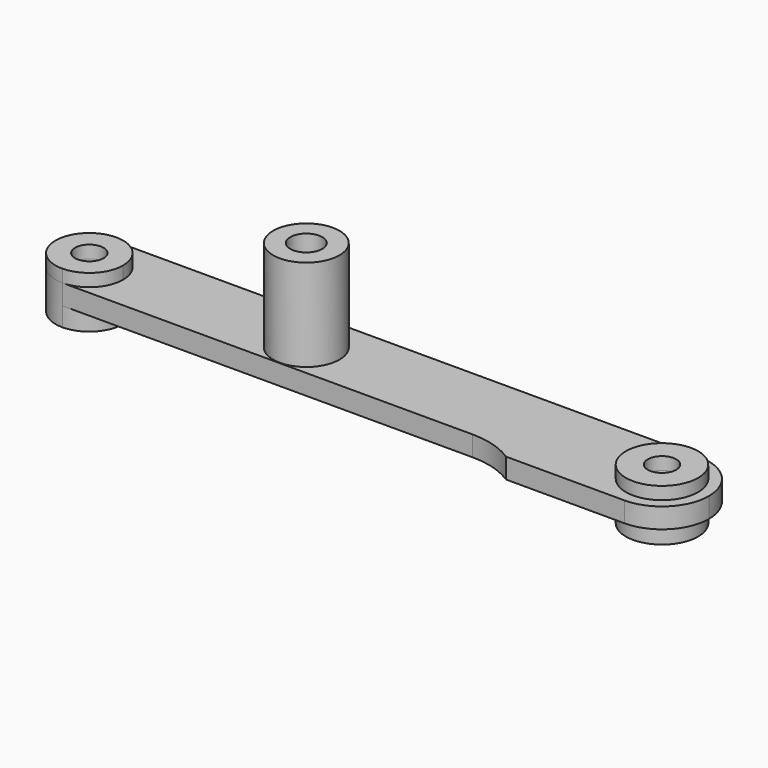
from build123d import *

# Parameters (mm, degrees)
F0_R     = 1.524
F0_R_2   = 3.8735
F1_DEPTH = 1.3462
F0_R_3   = 3.556
F0_R_4   = 1.7145
F2_DEPTH = 9.8425
F3_DEPTH = 4.191
F4_DEPTH = 2.159


with BuildPart() as f1:
    # F0 (on Top) → F1 (new body)
    with BuildSketch(Plane.XY):
        with BuildLine():
            ThreePointArc((-0.047665, -3.524364), (2.511708, -2.464237), (3.571835, 0.095136))
            ThreePointArc((3.571835, 0.095136), (0.457741, 3.679177), (-3.526021, 1.096046))
            ThreePointArc((-3.526021, 1.096046), (-2.93934, -2.081787), (-0.047665, -3.524364))
        make_face()
        with Locations((-0.047665, 0.095136)):
            Circle(F0_R, mode=Mode.SUBTRACT)
        with Locations((61.293335, 0.095136)):
            Circle(F0_R_2)
        with Locations((61.293335, 0.095136)):
            Circle(F0_R, mode=Mode.SUBTRACT)
    extrude(amount=F1_DEPTH)


with BuildPart() as f2:
    # F0 (on Top) → F2 (new body)
    with BuildSketch(Plane.XY):
        with Locations((23.193335, 0.095136)):
            Circle(F0_R_3)
        with Locations((23.193335, 0.095136)):
            Circle(F0_R_4, mode=Mode.SUBTRACT)
    extrude(amount=F2_DEPTH)


with BuildPart() as f3:
    # F0 (on Top) → F3 (new body)
    with BuildSketch(Plane.XY):
        with BuildLine():
            ThreePointArc((-0.047665, -3.524364), (2.511708, -2.464237), (3.571835, 0.095136))
            ThreePointArc((3.571835, 0.095136), (0.457741, 3.679177), (-3.526021, 1.096046))
            ThreePointArc((-3.526021, 1.096046), (-2.93934, -2.081787), (-0.047665, -3.524364))
        make_face()
        with Locations((-0.047665, 0.095136)):
            Circle(F0_R, mode=Mode.SUBTRACT)
        with Locations((61.293335, 0.095136)):
            Circle(F0_R_2)
        with Locations((61.293335, 0.095136)):
            Circle(F0_R, mode=Mode.SUBTRACT)
    extrude(amount=-F3_DEPTH)


with BuildPart() as f4:
    # F0 (on Top) → F4 (new body)
    with BuildSketch(Plane.XY):
        with BuildLine():
            ThreePointArc((-3.526021, 1.096046), (0.457741, 3.679177), (3.571835, 0.095136))
            ThreePointArc((3.571835, 0.095136), (2.511708, -2.464237), (-0.047665, -3.524364))
            Line((-0.047665, -3.524364), (43.902924, -3.524364))
            ThreePointArc((43.902924, -3.524364), (46.349941, -3.881033), (48.593335, -4.921364))
            Line((48.593335, -4.921364), (61.293335, -4.921364))
            ThreePointArc((61.293335, -4.921364), (56.276835, 0.095136), (61.293335, 5.111636))
            Line((61.293335, 5.111636), (-0.047457, 5.111636))
            ThreePointArc((-0.047457, 5.111636), (-2.703835, 3.898289), (-3.526021, 1.096046))
        make_face()
        with Locations((23.193335, 0.095136)):
            Circle(F0_R_3, mode=Mode.SUBTRACT)
        with Locations((23.193335, 0.095136)):
            Circle(F0_R_3)
        with Locations((23.193335, 0.095136)):
            Circle(F0_R_4, mode=Mode.SUBTRACT)
        with BuildLine():
            ThreePointArc((66.309835, 0.095136), (64.840536, 3.642338), (61.293335, 5.111636))
            ThreePointArc((61.293335, 5.111636), (56.276835, 0.095136), (61.293335, -4.921364))
            ThreePointArc((61.293335, -4.921364), (64.840536, -3.452065), (66.309835, 0.095136))
        make_face()
        with Locations((61.293335, 0.095136)):
            Circle(F0_R_2, mode=Mode.SUBTRACT)
    extrude(amount=-F4_DEPTH)


solid = Compound([f1.part, f2.part, f3.part, f4.part])
